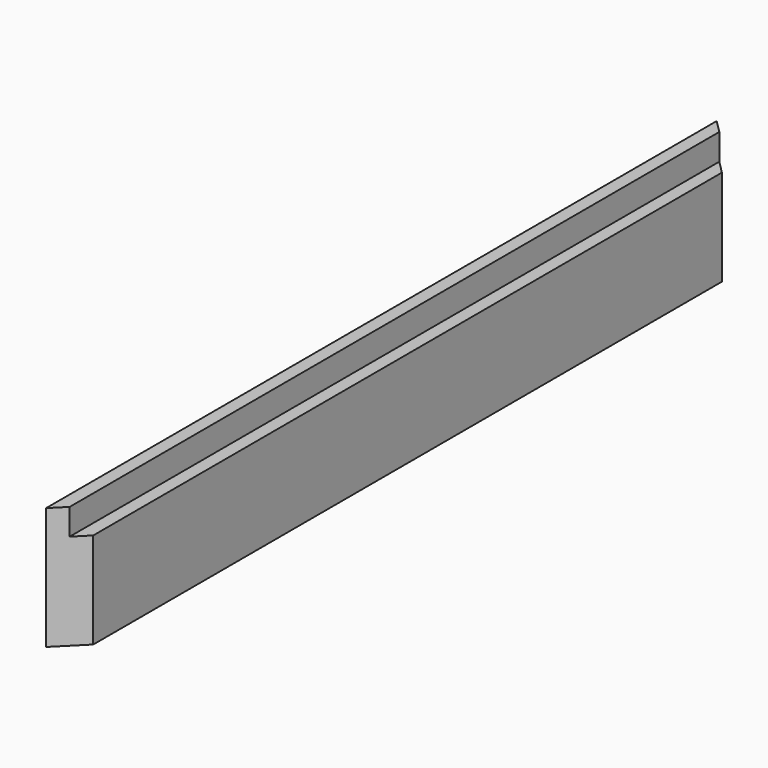
from build123d import *

# Parameters (mm, degrees)
F0_W     = 19.05
F0_H     = 88.9
F1_DEPTH = 609.6
F3_DEPTH = 88.901
F5_DEPTH = 19.05


with BuildPart() as f1:
    # F0 (on Front) → F1 (new body)
    with BuildSketch(Plane.XZ):
        Rectangle(F0_W, F0_H)
    extrude(amount=F1_DEPTH)

    # F2 (on face) → F3 (cut, through all)
    with BuildSketch(Plane.XY.offset(44.45)):
        Polygon((9.525, -590.55), (-9.525, -609.6), (9.525, -609.6), align=None)
        Polygon((9.525, 0), (-9.525, 0), (9.525, -19.05), align=None)
    extrude(amount=-F3_DEPTH, mode=Mode.SUBTRACT)

    # F4 (on face) → F5 (cut)
    with BuildSketch(Plane.XY.offset(44.45)):
        Polygon((0, -9.525), (0, -600.075), (9.525, -590.55), (9.525, -19.05), align=None)
    extrude(amount=-F5_DEPTH, mode=Mode.SUBTRACT)


solid = f1.part
